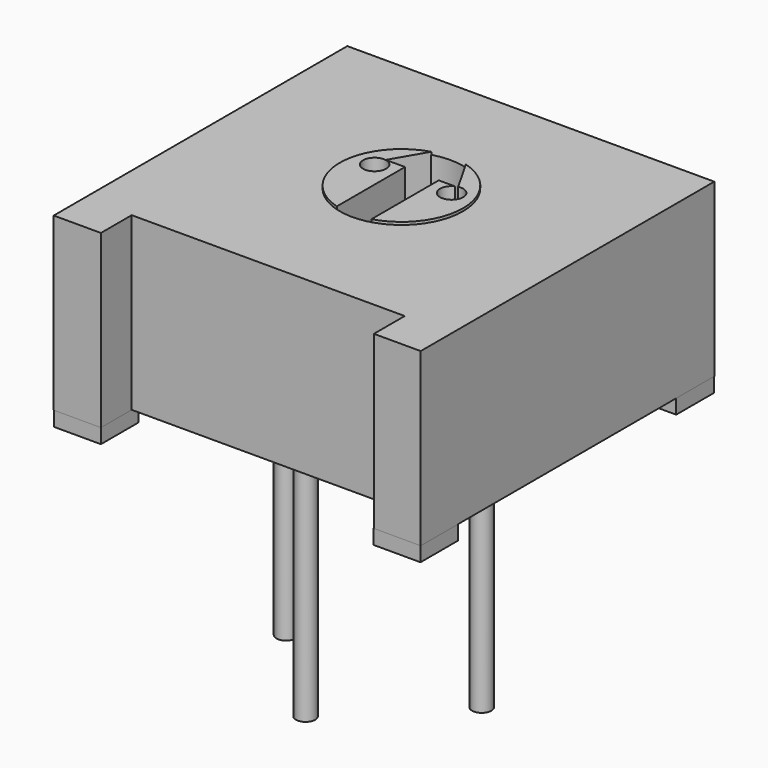
from build123d import *

# Parameters (mm, degrees)
BOX001_W          = 1.22
BOX001_H          = 1.22
BOX001_DEPTH      = 0.38
BOX002_W          = 1.22
BOX002_H          = 1.22
BOX002_DEPTH      = 0.38
BOX003_W          = 1.22
BOX003_H          = 1.22
BOX003_DEPTH      = 0.38
BOX004_W          = 1.22
BOX004_H          = 1.22
BOX004_DEPTH      = 0.38
CYLINDER_R        = 0.25
CYLINDER_DEPTH    = 6.35
CYLINDER001_R     = 0.25
CYLINDER001_DEPTH = 6.35
CYLINDER002_R     = 0.25
CYLINDER002_DEPTH = 6.35
CYLINDER003_R     = 1.6
CYLINDER003_DEPTH = 3
BOX005_W          = 7.09
BOX005_H          = 1
BOX005_DEPTH      = 4.45
BOX_W             = 9.53
BOX_H             = 9.53
BOX_DEPTH         = 4.45
BOX006_W          = 0.9
BOX006_H          = 3.4
BOX006_DEPTH      = 2
CYLINDER004_R     = 0.3
CYLINDER004_DEPTH = 0.5
CYLINDER005_R     = 0.3
CYLINDER005_DEPTH = 0.5
PAD_DEPTH         = 1.4
CYLINDER006_R     = 1.6
CYLINDER006_DEPTH = 3


with BuildPart() as cube001:
    # Box001 → Box001 (new body)
    with BuildSketch(Plane(origin=(-4.76, -4.76, 0), x_dir=(1, 0, 0), z_dir=(0, 0, 1))):
        with Locations((0.61, 0.61)):
            Rectangle(BOX001_W, BOX001_H)
    extrude(amount=BOX001_DEPTH)


with BuildPart() as cube002:
    # Box002 → Box002 (new body)
    with BuildSketch(Plane(origin=(-4.76, 3.54, 0), x_dir=(1, 0, 0), z_dir=(0, 0, 1))):
        with Locations((0.61, 0.61)):
            Rectangle(BOX002_W, BOX002_H)
    extrude(amount=BOX002_DEPTH)


with BuildPart() as cube003:
    # Box003 → Box003 (new body)
    with BuildSketch(Plane(origin=(3.54, -4.76, 0), x_dir=(1, 0, 0), z_dir=(0, 0, 1))):
        with Locations((0.61, 0.61)):
            Rectangle(BOX003_W, BOX003_H)
    extrude(amount=BOX003_DEPTH)


with BuildPart() as cube004:
    # Box004 → Box004 (new body)
    with BuildSketch(Plane(origin=(3.54, 3.54, 0), x_dir=(1, 0, 0), z_dir=(0, 0, 1))):
        with Locations((0.61, 0.61)):
            Rectangle(BOX004_W, BOX004_H)
    extrude(amount=BOX004_DEPTH)


with BuildPart() as cylinder:
    # Cylinder → Cylinder (new body)
    with BuildSketch(Plane(origin=(2.54, 0, -5.97), x_dir=(1, 0, 0), z_dir=(0, 0, 1))):
        Circle(CYLINDER_R)
    extrude(amount=CYLINDER_DEPTH)


with BuildPart() as cylinder001:
    # Cylinder001 → Cylinder001 (new body)
    with BuildSketch(Plane(origin=(-2.54, 0, -5.97), x_dir=(1, 0, 0), z_dir=(0, 0, 1))):
        Circle(CYLINDER001_R)
    extrude(amount=CYLINDER001_DEPTH)


with BuildPart() as cylinder002:
    # Cylinder002 → Cylinder002 (new body)
    with BuildSketch(Plane(origin=(0, -2.54, -5.97), x_dir=(1, 0, 0), z_dir=(0, 0, 1))):
        Circle(CYLINDER002_R)
    extrude(amount=CYLINDER002_DEPTH)


with BuildPart() as cylinder003:
    # Cylinder003 → Cylinder003 (new body)
    with BuildSketch(Plane(origin=(0, 0.57, 1.9), x_dir=(1, 0, 0), z_dir=(0, 0, 1))):
        Circle(CYLINDER003_R)
    extrude(amount=CYLINDER003_DEPTH)


with BuildPart() as cube005:
    # Box005 → Box005 (new body)
    with BuildSketch(Plane(origin=(-3.54, -4.76, 0.38), x_dir=(1, 0, 0), z_dir=(0, 0, 1))):
        with Locations((3.545, 0.5)):
            Rectangle(BOX005_W, BOX005_H)
    extrude(amount=BOX005_DEPTH)


with BuildPart() as cut002:
    # Box → Box (new body)
    with BuildSketch(Plane(origin=(-4.765, -4.76, 0.38), x_dir=(1, 0, 0), z_dir=(0, 0, 1))):
        with Locations((4.765, 4.765)):
            Rectangle(BOX_W, BOX_H)
    extrude(amount=BOX_DEPTH)

    # Cut: cut Cube005
    add(cube005.part, mode=Mode.SUBTRACT)

    # Cut002: cut Cylinder003
    add(cylinder003.part, mode=Mode.SUBTRACT)


with BuildPart() as cube006:
    # Box006 → Box006 (new body)
    with BuildSketch(Plane(origin=(-0.45, -1.1, 2.9), x_dir=(1, 0, 0), z_dir=(0, 0, 1))):
        with Locations((0.45, 1.7)):
            Rectangle(BOX006_W, BOX006_H)
    extrude(amount=BOX006_DEPTH)


with BuildPart() as cylinder004:
    # Cylinder004 → Cylinder004 (new body)
    with BuildSketch(Plane(origin=(-1, 0.95, 4.4), x_dir=(1, 0, 0), z_dir=(0, 0, 1))):
        Circle(CYLINDER004_R)
    extrude(amount=CYLINDER004_DEPTH)


with BuildPart() as cylinder005:
    # Cylinder005 → Cylinder005 (new body)
    with BuildSketch(Plane(origin=(1, 0.95, 4.4), x_dir=(1, 0, 0), z_dir=(0, 0, 1))):
        Circle(CYLINDER005_R)
    extrude(amount=CYLINDER005_DEPTH)


with BuildPart() as fusion:
    # Sketch → Pad (new body)
    with BuildSketch(Plane.XY):
        Polygon((-0.45, -1.1), (0.45, -1.1), (0.45, 1.218883), (0.95, 1.218883), (0, 2.88), (-0.95, 1.25), (-0.45, 1.25), align=None)
    extrude(amount=PAD_DEPTH)


with BuildPart() as fusion_1:
    # Body placement: moved
    add(fusion.part.moved(Location((0, 0, 3.5))))

    # Fusion: union Cube006, Cylinder004, Cylinder005
    add(cube006.part)
    add(cylinder004.part)
    add(cylinder005.part)


with BuildPart() as cut003:
    # Cylinder006 → Cylinder006 (new body)
    with BuildSketch(Plane(origin=(0, 0.57, 1.9), x_dir=(1, 0, 0), z_dir=(0, 0, 1))):
        Circle(CYLINDER006_R)
    extrude(amount=CYLINDER006_DEPTH)

    # Cut003: cut Fusion
    add(fusion_1.part, mode=Mode.SUBTRACT)


solid = Compound([cube001.part, cube002.part, cube003.part, cube004.part, cylinder.part, cylinder001.part, cylinder002.part, cut002.part, cut003.part])
